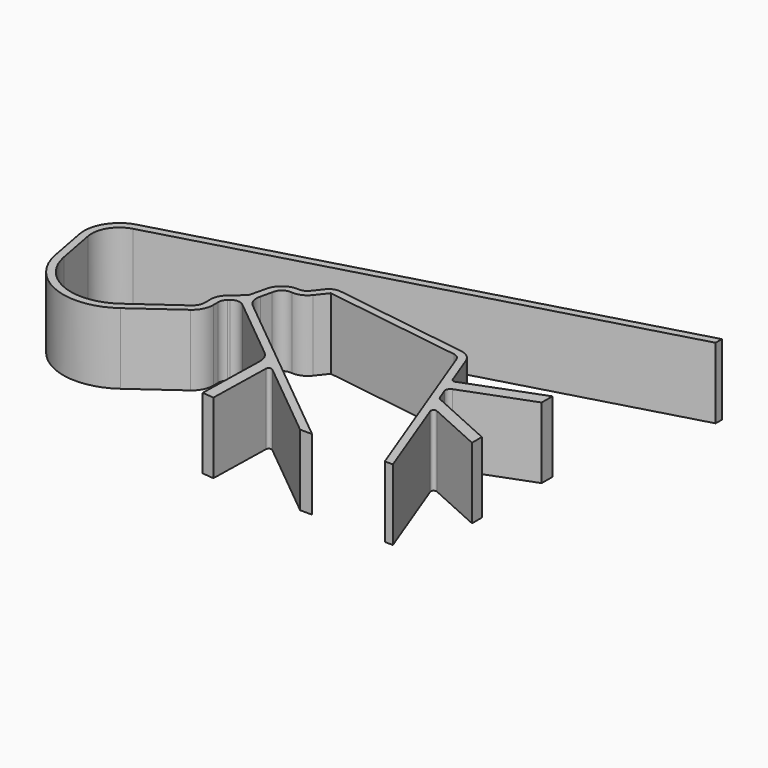
from build123d import *

# Parameters (mm, degrees)
F1_DEPTH = 25.4


with BuildPart() as f1:
    # F0 (on Top) → F1 (new body)
    with BuildSketch(Plane.XY):
        with BuildLine():
            Line((-138.121067, -9.28813), (-138.121067, -4.478282))
            Line((-138.121067, -4.478282), (-164.747996, -14.538954))
            ThreePointArc((-164.747996, -14.538954), (-165.651524, -14.510535), (-166.27032, -13.85155))
            Line((-166.27032, -13.85155), (-170.456576, -2.772058))
            ThreePointArc((-170.456576, -2.772058), (-172.276443, -0.262484), (-175.118199, 0.976186))
            Line((-175.118199, 0.976186), (-223.976763, 8.105202))
            ThreePointArc((-223.976763, 8.105202), (-226.307662, 7.831447), (-228.189401, 6.428919))
            Line((-228.189401, 6.428919), (-230.737503, 3.202638))
            ThreePointArc((-230.737503, 3.202638), (-232.115595, 2.101746), (-233.845834, 1.759145))
            ThreePointArc((-233.845834, 1.759145), (-238.36593, 0.594852), (-241.11262, -3.179076))
            Line((-241.11262, -3.179076), (-242.513749, -9.105566))
            ThreePointArc((-242.513749, -9.105566), (-242.72937, -9.631265), (-243.096888, -10.064605))
            Line((-243.096888, -10.064605), (-247.248171, -13.63508))
            ThreePointArc((-247.248171, -13.63508), (-248.832243, -15.752435), (-249.373066, -18.340869))
            Line((-249.373066, -18.340869), (-249.346763, -20.498443))
            ThreePointArc((-249.346763, -20.498443), (-249.715872, -22.568048), (-250.904411, -24.302084))
            Line((-250.904411, -24.302084), (-267.317735, -36.031942))
            ThreePointArc((-267.317735, -36.031942), (-285.617958, -38.262226), (-297.331662, -24.026305))
            Line((-297.331662, -24.026305), (-300.008709, -9.85638))
            ThreePointArc((-300.008709, -9.85638), (-298.698854, -2.824328), (-292.982342, 1.475319))
            Line((-292.982342, 1.475319), (-122.758904, 49.318104))
            Line((-122.758904, 49.318104), (-122.758904, 52.141209))
            Line((-122.758904, 52.141209), (-293.71771, 4.091742))
            ThreePointArc((-293.71771, 4.091742), (-301.008654, -1.392107), (-302.679267, -10.360914))
            Line((-302.679267, -10.360914), (-300.002221, -24.530839))
            ThreePointArc((-300.002221, -24.530839), (-286.627328, -40.785638), (-265.731845, -38.239065))
            Line((-265.731845, -38.239065), (-249.839197, -26.819677))
            ThreePointArc((-249.839197, -26.819677), (-247.456729, -24.035239), (-246.629164, -20.465311))
            Line((-246.629164, -20.465311), (-246.655468, -18.307737))
            ThreePointArc((-246.655468, -18.307737), (-246.355261, -16.870915), (-245.475953, -15.695584))
            Line((-245.475953, -15.695584), (-244.920639, -15.217965))
            ThreePointArc((-244.920639, -15.217965), (-242.750843, -14.398133), (-240.561706, -15.164823))
            Line((-240.561706, -15.164823), (-217.525015, -34.021155))
            ThreePointArc((-217.525015, -34.021155), (-215.778016, -36.281631), (-215.198752, -39.079167))
            Line((-215.198752, -39.079167), (-215.762006, -63.870636))
            Line((-215.762006, -63.870636), (-211.61383, -64.260083))
            Line((-211.61383, -64.260083), (-211.094592, -41.40598))
            ThreePointArc((-211.094592, -41.40598), (-210.503383, -40.506002), (-209.435318, -40.642853))
            Line((-209.435318, -40.642853), (-180.577116, -64.264295))
            Line((-180.577116, -64.264295), (-176.249568, -64.294373))
            Line((-176.249568, -64.294373), (-238.081117, -13.683101))
            ThreePointArc((-238.081117, -13.683101), (-239.564975, -11.15445), (-239.512384, -8.223044))
            Line((-239.512384, -8.223044), (-238.591485, -4.32783))
            ThreePointArc((-238.591485, -4.32783), (-237.150863, -1.672853), (-234.232745, -0.892544))
            ThreePointArc((-234.232745, -0.892544), (-231.147851, -0.38091), (-228.667785, 1.523719))
            Line((-228.667785, 1.523719), (-225.469807, 5.572841))
            Line((-225.469807, 5.572841), (-175.573704, -1.707564))
            ThreePointArc((-175.573704, -1.707564), (-174.042585, -2.374951), (-173.062054, -3.727092))
            Line((-173.062054, -3.727092), (-150.108771, -64.476058))
            Line((-150.108771, -64.476058), (-147.195792, -64.496304))
            Line((-147.195792, -64.496304), (-159.148293, -32.862393))
            ThreePointArc((-159.148293, -32.862393), (-158.893353, -31.762638), (-157.77975, -31.577314))
            Line((-157.77975, -31.577314), (-138.121067, -40.454176))
            Line((-138.121067, -40.454176), (-138.121067, -36.044862))
            Line((-138.121067, -36.044862), (-161.338373, -25.561106))
            ThreePointArc((-161.338373, -25.561106), (-161.914891, -25.149097), (-162.289855, -24.547827))
            Line((-162.289855, -24.547827), (-163.687494, -20.848786))
            ThreePointArc((-163.687494, -20.848786), (-163.644713, -19.488636), (-162.652692, -18.557116))
            Line((-162.652692, -18.557116), (-138.121067, -9.28813))
        make_face()
    extrude(amount=F1_DEPTH)


solid = f1.part
